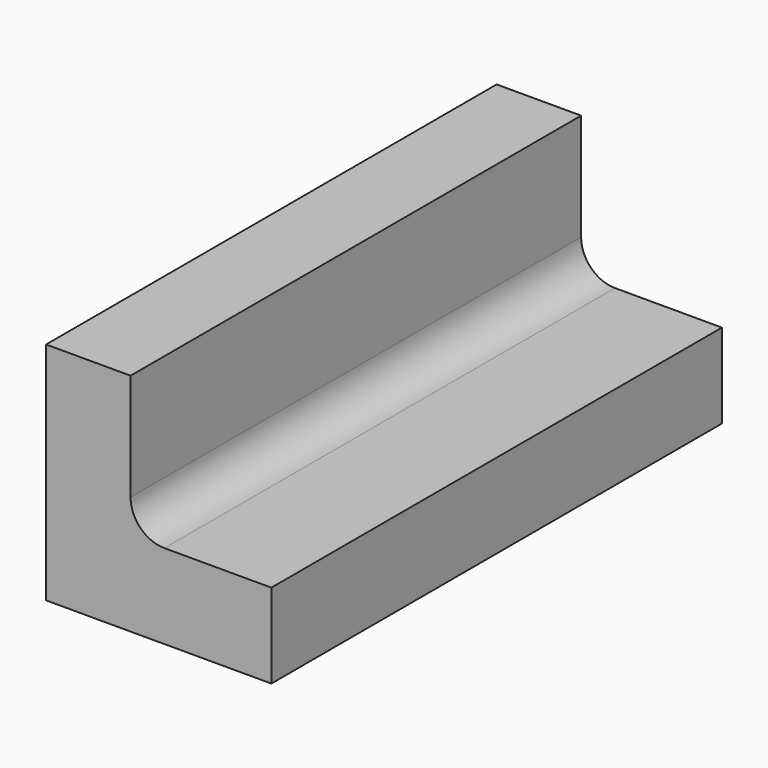
from build123d import *

# Parameters (mm, degrees)
PAD_DEPTH = 100


with BuildPart() as part:
    # Sketch → Pad (new body)
    with BuildSketch(Plane.XZ):
        with BuildLine():
            Line((0, 0), (0, 40))
            Line((0, 40), (15, 40))
            Line((15, 40), (15, 21))
            ThreePointArc((15, 21), (16.757359, 16.757359), (21, 15))
            Line((21, 15), (40, 15))
            Line((40, 15), (40, 0))
            Line((40, 0), (0, 0))
        make_face()
    extrude(amount=PAD_DEPTH)


solid = part.part
